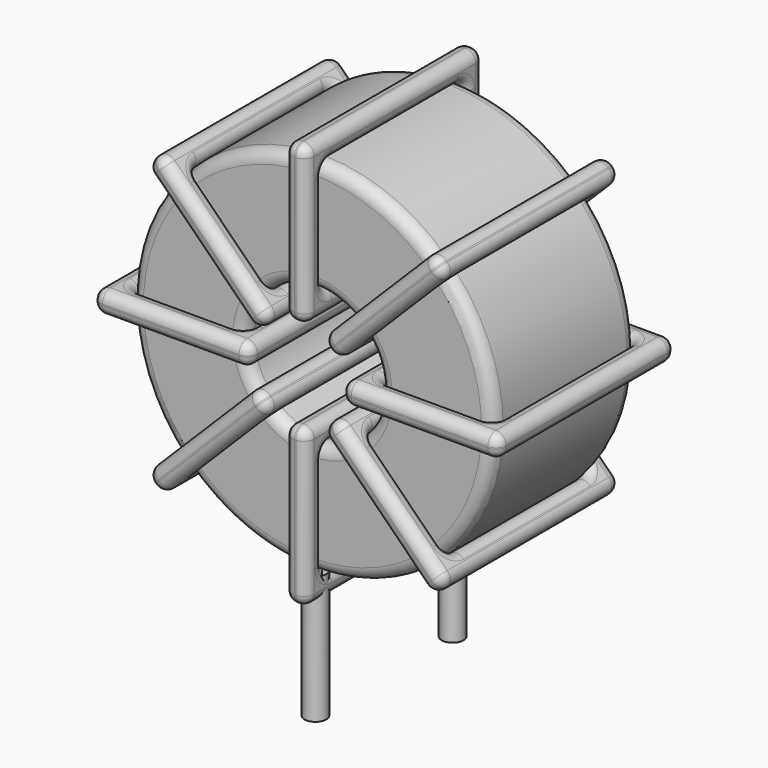
from build123d import *

# Parameters (mm, degrees)
SKETCH001_R       = 0.45
PAD001_DEPTH      = 0.9
PAD001_DEPTH_BACK = 4.4
SKETCH_R          = 7.5
SKETCH_R_2        = 2.8
PAD_DEPTH         = 3.7
FILLET_R          = 0.5
SKETCH003_W       = 6.5
SKETCH003_H       = 9.2
SKETCH003_W_2     = 4.7
SKETCH003_H_2     = 7.4
PAD002_DEPTH      = 0.45
FILLET001_R       = 0.423
SKETCH004_W       = 6.5
SKETCH004_H       = 9.2
SKETCH004_W_2     = 4.7
SKETCH004_H_2     = 7.4
PAD003_DEPTH      = 0.45
FILLET002_R       = 0.423
SKETCH005_W       = 6.5
SKETCH005_H       = 9.2
SKETCH005_W_2     = 4.7
SKETCH005_H_2     = 7.4
PAD004_DEPTH      = 0.45
FILLET003_R       = 0.423
SKETCH006_W       = 6.5
SKETCH006_H       = 9.2
SKETCH006_W_2     = 4.7
SKETCH006_H_2     = 7.4
PAD005_DEPTH      = 0.45
FILLET004_R       = 0.423


with BuildPart() as pad001:
    # Sketch001 → Pad001 (new body, two sides)
    with BuildSketch(Plane.XY.offset(1.4)) as pad001_sk:
        Circle(SKETCH001_R)
        with Locations((0, -7.1)):
            Circle(SKETCH001_R)
    extrude(amount=PAD001_DEPTH)
    extrude(pad001_sk.sketch, amount=-PAD001_DEPTH_BACK)


with BuildPart() as fillet_body:
    # Sketch → Pad (new body, symmetric)
    with BuildSketch(Plane.XZ.offset(3.55)):
        with Locations((0, 9.8)):
            Circle(SKETCH_R)
        with Locations((0, 9.8)):
            Circle(SKETCH_R_2, mode=Mode.SUBTRACT)
    extrude(amount=PAD_DEPTH, both=True)

    # Fillet
    fillet_edges = [fillet_body.edges().sort_by_distance(p)[0] for p in [
        (-2.8, -7.25, 9.8),
        (-7.5, -7.25, 9.8),
        (-7.5, 0.15, 9.8),
    ]]
    fillet(fillet_edges, radius=FILLET_R)


with BuildPart() as fillet001:
    # Sketch003 → Pad002 (new body, symmetric)
    with BuildSketch(Plane(origin=(0, 1.05, 9.8), x_dir=(1, 0, 0), z_dir=(0, 0, -1))):
        with Locations((-5.15, 4.6)):
            Rectangle(SKETCH003_W, SKETCH003_H)
        with Locations((-5.15, 4.6)):
            Rectangle(SKETCH003_W_2, SKETCH003_H_2, mode=Mode.SUBTRACT)
        with Locations((5.15, 4.6)):
            Rectangle(SKETCH003_W, SKETCH003_H)
        with Locations((5.15, 4.6)):
            Rectangle(SKETCH003_W_2, SKETCH003_H_2, mode=Mode.SUBTRACT)
    extrude(amount=PAD002_DEPTH, both=True)

    # Fillet001
    fillet001_edges = [fillet001.edges().sort_by_distance(p)[0] for p in [
        (7.5, -7.25, 9.8),
        (7.5, 0.15, 9.8),
        (7.5, -3.55, 10.25),
        (7.5, -3.55, 9.35),
        (8.4, 1.05, 9.8),
        (1.9, 1.05, 9.8),
        (5.15, 1.05, 10.25),
        (5.15, 1.05, 9.35),
        (1.9, -8.15, 9.8),
        (1.9, -3.55, 10.25),
        (1.9, -3.55, 9.35),
        (-7.5, -7.25, 9.8),
        (-2.8, -7.25, 9.8),
        (-5.15, -7.25, 10.25),
        (-5.15, -7.25, 9.35),
        (-2.8, 0.15, 9.8),
        (-2.8, -3.55, 10.25),
        (-2.8, -3.55, 9.35),
        (-1.9, 1.05, 9.8),
        (-8.4, 1.05, 9.8),
        (-5.15, 1.05, 10.25),
        (-5.15, 1.05, 9.35),
        (-8.4, -8.15, 9.8),
        (-8.4, -3.55, 10.25),
        (-8.4, -3.55, 9.35),
        (2.8, -7.25, 9.8),
        (5.15, -7.25, 10.25),
        (5.15, -7.25, 9.35),
        (-7.5, 0.15, 9.8),
        (-7.5, -3.55, 10.25),
        (-7.5, -3.55, 9.35),
        (-5.15, 0.15, 10.25),
        (-5.15, 0.15, 9.35),
        (-1.9, -8.15, 9.8),
        (-5.15, -8.15, 10.25),
        (-5.15, -8.15, 9.35),
        (-1.9, -3.55, 10.25),
        (-1.9, -3.55, 9.35),
        (8.4, -8.15, 9.8),
        (5.15, -8.15, 10.25),
        (5.15, -8.15, 9.35),
        (8.4, -3.55, 10.25),
        (8.4, -3.55, 9.35),
        (2.8, 0.15, 9.8),
        (2.8, -3.55, 10.25),
        (2.8, -3.55, 9.35),
        (5.15, 0.15, 10.25),
        (5.15, 0.15, 9.35),
    ]]
    fillet(fillet001_edges, radius=FILLET001_R)


with BuildPart() as fillet002:
    # Sketch004 → Pad003 (new body, symmetric)
    with BuildSketch(Plane(origin=(0, 1.05, 9.8), x_dir=(0.707108, 0, 0.707106), z_dir=(0.707106, 0, -0.707108))):
        with Locations((-5.15, 4.6)):
            Rectangle(SKETCH004_W, SKETCH004_H)
        with Locations((-5.15, 4.6)):
            Rectangle(SKETCH004_W_2, SKETCH004_H_2, mode=Mode.SUBTRACT)
        with Locations((5.15, 4.6)):
            Rectangle(SKETCH004_W, SKETCH004_H)
        with Locations((5.15, 4.6)):
            Rectangle(SKETCH004_W_2, SKETCH004_H_2, mode=Mode.SUBTRACT)
    extrude(amount=PAD003_DEPTH, both=True)

    # Fillet002
    fillet002_edges = [fillet002.edges().sort_by_distance(p)[0] for p in [
        (5.303307, -7.25, 15.103295),
        (5.303307, 0.15, 15.103295),
        (4.985109, -3.55, 15.421493),
        (5.621505, -3.55, 14.785096),
        (5.939704, 1.05, 15.73969),
        (5.939704, -8.15, 15.73969),
        (5.621506, -3.55, 16.057889),
        (6.257902, -3.55, 15.421492),
        (1.343504, 1.05, 11.143501),
        (3.323406, -8.15, 13.759794),
        (3.959802, -8.15, 13.123397),
        (-5.303307, -7.25, 4.496705),
        (-1.979901, -7.25, 7.820103),
        (-3.959802, -7.25, 6.476603),
        (-3.323406, -7.25, 5.840206),
        (-1.979901, 0.15, 7.820103),
        (-2.298099, -3.55, 8.138302),
        (-1.661704, -3.55, 7.501905),
        (-1.343504, 1.05, 8.456499),
        (-5.939704, 1.05, 3.86031),
        (-3.959802, 1.05, 6.476603),
        (-3.323406, 1.05, 5.840206),
        (-5.939704, -8.15, 3.86031),
        (-6.257902, -3.55, 4.178508),
        (-5.621506, -3.55, 3.542111),
        (1.979901, -7.25, 11.779897),
        (3.323406, -7.25, 13.759794),
        (3.959802, -7.25, 13.123397),
        (-5.303307, 0.15, 4.496705),
        (-5.621505, -3.55, 4.814904),
        (-4.985109, -3.55, 4.178507),
        (-3.959802, 0.15, 6.476603),
        (-3.323406, 0.15, 5.840206),
        (-1.343504, -8.15, 8.456499),
        (-3.959802, -8.15, 6.476603),
        (-3.323406, -8.15, 5.840206),
        (-1.661702, -3.55, 8.774697),
        (-1.025307, -3.55, 8.1383),
        (1.343504, -8.15, 11.143501),
        (1.025307, -3.55, 11.4617),
        (1.661702, -3.55, 10.825303),
        (3.323406, 1.05, 13.759794),
        (3.959802, 1.05, 13.123397),
        (1.979901, 0.15, 11.779897),
        (1.661704, -3.55, 12.098095),
        (2.298099, -3.55, 11.461698),
        (3.323406, 0.15, 13.759794),
        (3.959802, 0.15, 13.123397),
    ]]
    fillet(fillet002_edges, radius=FILLET002_R)


with BuildPart() as fillet003:
    # Sketch005 → Pad004 (new body, symmetric)
    with BuildSketch(Plane(origin=(0, 1.05, 9.8), x_dir=(0.707108, 0, -0.707106), z_dir=(-0.707106, 0, -0.707108))):
        with Locations((-5.15, 4.6)):
            Rectangle(SKETCH005_W, SKETCH005_H)
        with Locations((-5.15, 4.6)):
            Rectangle(SKETCH005_W_2, SKETCH005_H_2, mode=Mode.SUBTRACT)
        with Locations((5.15, 4.6)):
            Rectangle(SKETCH005_W, SKETCH005_H)
        with Locations((5.15, 4.6)):
            Rectangle(SKETCH005_W_2, SKETCH005_H_2, mode=Mode.SUBTRACT)
    extrude(amount=PAD004_DEPTH, both=True)

    # Fillet003
    fillet003_edges = [fillet003.edges().sort_by_distance(p)[0] for p in [
        (5.303307, -7.25, 4.496705),
        (5.303307, 0.15, 4.496705),
        (5.621505, -3.55, 4.814904),
        (4.985109, -3.55, 4.178507),
        (5.939704, 1.05, 3.86031),
        (1.343504, 1.05, 8.456499),
        (3.959802, 1.05, 6.476603),
        (3.323406, 1.05, 5.840206),
        (1.343504, -8.15, 8.456499),
        (1.661702, -3.55, 8.774697),
        (1.025307, -3.55, 8.1383),
        (-5.303307, -7.25, 15.103295),
        (-1.979901, -7.25, 11.779897),
        (-3.323406, -7.25, 13.759794),
        (-3.959802, -7.25, 13.123397),
        (-1.979901, 0.15, 11.779897),
        (-1.661704, -3.55, 12.098095),
        (-2.298099, -3.55, 11.461698),
        (-1.343504, 1.05, 11.143501),
        (-5.939704, 1.05, 15.73969),
        (-3.323406, 1.05, 13.759794),
        (-3.959802, 1.05, 13.123397),
        (-5.939704, -8.15, 15.73969),
        (-5.621506, -3.55, 16.057889),
        (-6.257902, -3.55, 15.421492),
        (1.979901, -7.25, 7.820103),
        (3.959802, -7.25, 6.476603),
        (3.323406, -7.25, 5.840206),
        (-5.303307, 0.15, 15.103295),
        (-4.985109, -3.55, 15.421493),
        (-5.621505, -3.55, 14.785096),
        (-3.323406, 0.15, 13.759794),
        (-3.959802, 0.15, 13.123397),
        (-1.343504, -8.15, 11.143501),
        (-3.323406, -8.15, 13.759794),
        (-3.959802, -8.15, 13.123397),
        (-1.025307, -3.55, 11.4617),
        (-1.661702, -3.55, 10.825303),
        (5.939704, -8.15, 3.86031),
        (3.959802, -8.15, 6.476603),
        (3.323406, -8.15, 5.840206),
        (6.257902, -3.55, 4.178508),
        (5.621506, -3.55, 3.542111),
        (1.979901, 0.15, 7.820103),
        (2.298099, -3.55, 8.138302),
        (1.661704, -3.55, 7.501905),
        (3.959802, 0.15, 6.476603),
        (3.323406, 0.15, 5.840206),
    ]]
    fillet(fillet003_edges, radius=FILLET003_R)


with BuildPart() as fillet004:
    # Sketch006 → Pad005 (new body, symmetric)
    with BuildSketch(Plane(origin=(0, 1.05, 9.8), x_dir=(0, 0, 1), z_dir=(1, 0, 0))):
        with Locations((-5.15, 4.6)):
            Rectangle(SKETCH006_W, SKETCH006_H)
        with Locations((-5.15, 4.6)):
            Rectangle(SKETCH006_W_2, SKETCH006_H_2, mode=Mode.SUBTRACT)
        with Locations((5.15, 4.6)):
            Rectangle(SKETCH006_W, SKETCH006_H)
        with Locations((5.15, 4.6)):
            Rectangle(SKETCH006_W_2, SKETCH006_H_2, mode=Mode.SUBTRACT)
    extrude(amount=PAD005_DEPTH, both=True)

    # Fillet004
    fillet004_edges = [fillet004.edges().sort_by_distance(p)[0] for p in [
        (0, -7.25, 17.3),
        (0, 0.15, 17.3),
        (-0.45, -3.55, 17.3),
        (0.45, -3.55, 17.3),
        (0, 1.05, 18.2),
        (0, 1.05, 11.7),
        (-0.45, 1.05, 14.95),
        (0.45, 1.05, 14.95),
        (0, -8.15, 11.7),
        (-0.45, -3.55, 11.7),
        (0.45, -3.55, 11.7),
        (0, -7.25, 2.3),
        (0, -7.25, 7),
        (-0.45, -7.25, 4.65),
        (0.45, -7.25, 4.65),
        (0, 0.15, 7),
        (-0.45, -3.55, 7),
        (0.45, -3.55, 7),
        (0, 1.05, 7.9),
        (0, 1.05, 1.4),
        (-0.45, 1.05, 4.65),
        (0.45, 1.05, 4.65),
        (0, -8.15, 1.4),
        (-0.45, -3.55, 1.4),
        (0.45, -3.55, 1.4),
        (0, -7.25, 12.6),
        (-0.45, -7.25, 14.95),
        (0.45, -7.25, 14.95),
        (0, 0.15, 2.3),
        (-0.45, -3.55, 2.3),
        (0.45, -3.55, 2.3),
        (-0.45, 0.15, 4.65),
        (0.45, 0.15, 4.65),
        (0, -8.15, 7.9),
        (-0.45, -8.15, 4.65),
        (0.45, -8.15, 4.65),
        (-0.45, -3.55, 7.9),
        (0.45, -3.55, 7.9),
        (0, -8.15, 18.2),
        (-0.45, -8.15, 14.95),
        (0.45, -8.15, 14.95),
        (-0.45, -3.55, 18.2),
        (0.45, -3.55, 18.2),
        (0, 0.15, 12.6),
        (-0.45, -3.55, 12.6),
        (0.45, -3.55, 12.6),
        (-0.45, 0.15, 14.95),
        (0.45, 0.15, 14.95),
    ]]
    fillet(fillet004_edges, radius=FILLET004_R)


solid = Compound([pad001.part, fillet_body.part, fillet001.part, fillet002.part, fillet003.part, fillet004.part])
